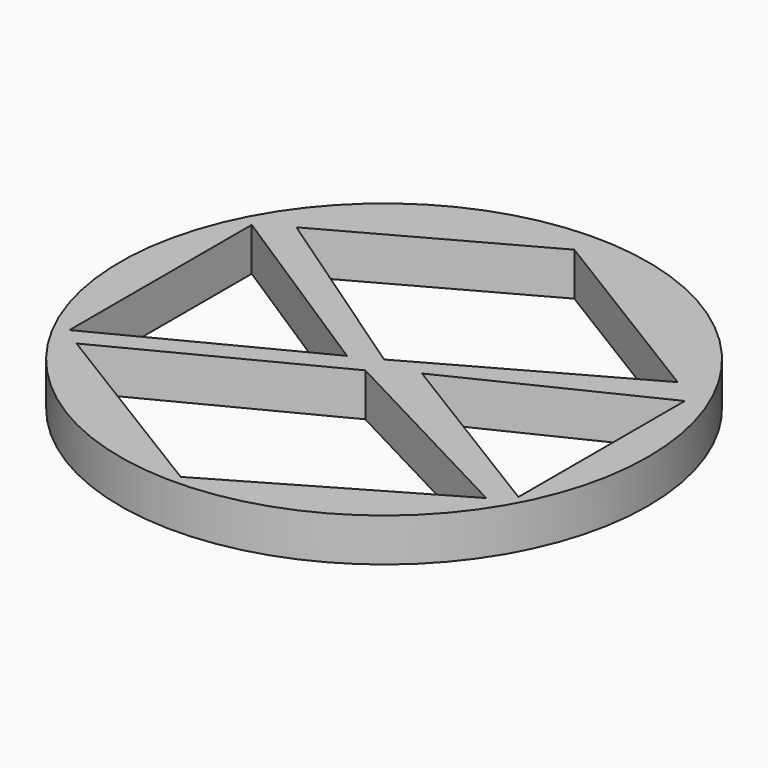
from build123d import *

# Parameters (mm, degrees)
F0_R     = 48.963809
F1_DEPTH = 8


with BuildPart() as f1:
    # F0 (on Top) → F1 (new body)
    with BuildSketch(Plane.XY):
        Circle(F0_R)
        Polygon((-41.356966, -21.273073), (-41.356966, 21.00881), (-4.893378, -2.469552), align=None, mode=Mode.SUBTRACT)
        Polygon((0, -47.170725), (-37.921563, -23.915688), (0, -4.360319), (38.714349, -24.708476), align=None, mode=Mode.SUBTRACT)
        Polygon((7.029216, 0), (42.149749, 17.044883), (42.149749, -21.537332), align=None, mode=Mode.SUBTRACT)
        Polygon((0, 0), (-35.807468, 24.444213), (0, 44.101792), (37.657302, 21.00881), align=None, mode=Mode.SUBTRACT)
    extrude(amount=F1_DEPTH)


solid = f1.part
